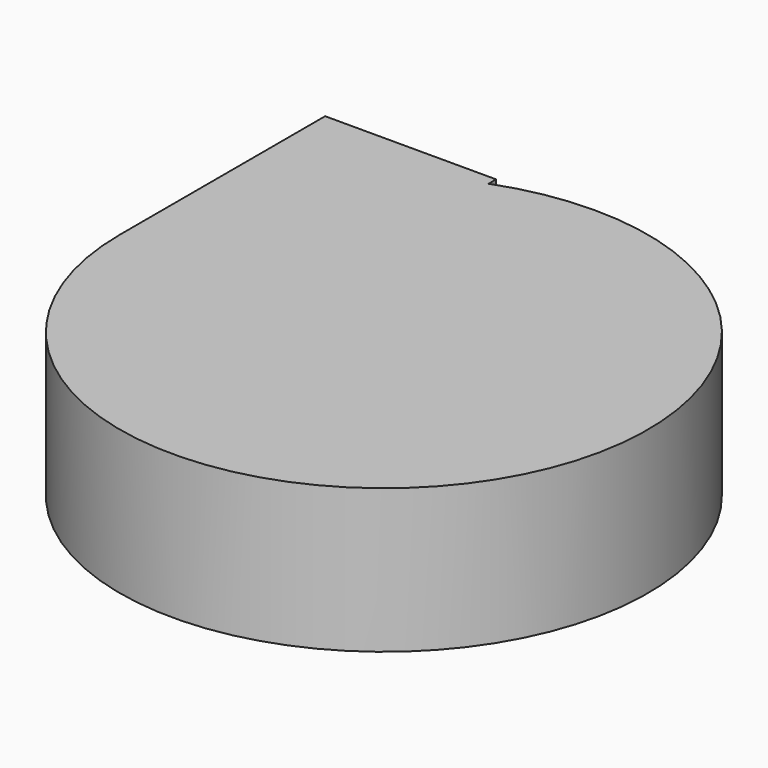
from build123d import *

# Parameters (mm, degrees)
F0_W      = 7.860821
F0_H      = 16.803533
F0_W_2    = 16.393233
F1_DEPTH  = 25.4
F1_FACE_W = 46.551746
F1_FACE_H = 25.4


with BuildPart() as f1:
    # F0 (on Top) → F1 (new body)
    with BuildSketch(Plane.XY):
        with Locations((-3.93041, 8.401766)):
            Rectangle(F0_W, F0_H)
        with Locations((8.196616, 8.401766)):
            Rectangle(F0_W_2, F0_H)
        Polygon((-30.158512, 0), (-7.860821, 0), (-7.860821, 16.803533), (0, 16.803533), (0, 45.235127), (-30.158512, 45.235127), align=None)
    extrude(amount=F1_DEPTH)

    # F1_face (on face) → F2 (revolve)
    with BuildSketch(Plane(origin=(-6.88264, 0, 12.7), x_dir=(1, 0, 0), z_dir=(0, -1, 0))):
        Rectangle(F1_FACE_W, F1_FACE_H)
    revolve(axis=Axis((16.393233, 0, 12.7), (0, 0, 1)))


solid = f1.part
